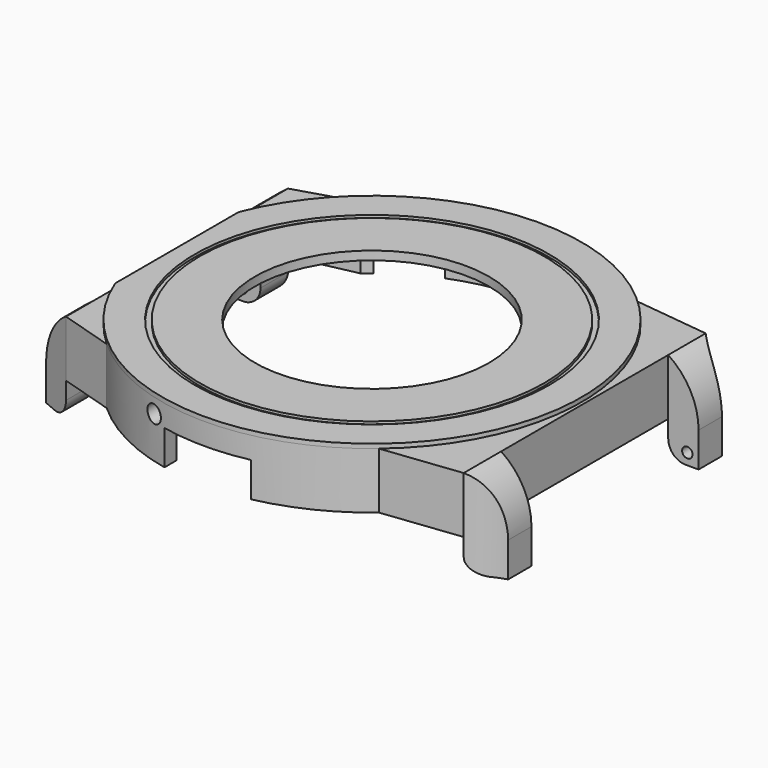
from build123d import *

# Parameters (mm, degrees)
PAD_DEPTH            = 6.5
POCKET_DEPTH         = 6
SKETCH002_R          = 13.5
POCKET001_DEPTH      = 1
SKETCH003_W          = 5.4
SKETCH003_H          = 6.5
PAD001_DEPTH         = 3.5
POCKET002_DEPTH      = 10
SKETCH010_W          = 3.95
SKETCH010_H          = 6.5
PAD002_DEPTH         = 3.5
POCKET005_DEPTH      = 10
SKETCH015_R          = 2.2
SKETCH015_R_2        = 1.025
PAD003_DEPTH         = 2
POCKET009_DEPTH      = 4
POCKET010_DEPTH      = 4
PAD004_DEPTH         = 4
POCKET013_DEPTH      = 12.151
POCKET013_DEPTH_BACK = 36.251
SKETCH022_R          = 0.6
POCKET014_DEPTH      = 2
SKETCH023_R          = 0.6
POCKET015_DEPTH      = 2
SKETCH024_R          = 13.5
PAD005_DEPTH         = 0.5
SKETCH025_R          = 20.45
SKETCH025_R_2        = 19.85
POCKET016_DEPTH      = 0.3
SKETCH026_R          = 1
POCKET017_DEPTH      = 5


with BuildPart() as part:
    # Sketch → Pad (new body)
    with BuildSketch(Plane.XY):
        with BuildLine():
            Line((-22.5019915649, 16), (-22.5019915649, -16))
            Line((-22.5019915649, -16), (-16.2858834578, -17.9))
            ThreePointArc((-16.2858834578, -17.9), (-0.4552796053, -24.1957169863), (15.6009615088, -18.5))
            Line((15.6009615088, -18.5), (24.5395016581, -17.45))
            Line((24.5395016581, 17.45), (24.5395016581, -17.45))
            Line((15.6009615088, 18.5), (24.5395016581, 17.45))
            ThreePointArc((15.6009615088, 18.5), (-0.4552796053, 24.1957169863), (-16.2858834578, 17.9))
            Line((-22.5019915649, 16), (-16.2858834578, 17.9))
        make_face()
    extrude(amount=PAD_DEPTH)

    # Sketch001 → Pocket (cut)
    with BuildSketch(Plane.XY):
        with BuildLine():
            Line((-14.8539557021, 16.9), (-21.2122180433, 15.55))
            Line((-21.2122180433, 15.55), (-21.2122180433, -15.55))
            Line((-21.2122180433, -15.55), (-14.8539557021, -16.9))
            ThreePointArc((-14.8539557021, -16.9), (-0.0760301383, -22.4998715423), (14.739402973, -17))
            Line((14.739402973, -17), (23.6191552218, -16.4))
            Line((23.6191552218, 16.4), (23.6191552218, -16.4))
            Line((14.739402973, 17), (23.6191552218, 16.4))
            ThreePointArc((14.739402973, 17), (-0.0760301383, 22.4998715423), (-14.8539557021, 16.9))
        make_face()
    extrude(amount=POCKET_DEPTH, mode=Mode.SUBTRACT)

    # Sketch002 (on Face19 of Pocket) → Pocket001 (cut)
    with BuildSketch(Plane(origin=(0, 0, 6), x_dir=(1, 0, 0), z_dir=(0, 0, -1))):
        Circle(SKETCH002_R)
    extrude(amount=-POCKET001_DEPTH, mode=Mode.SUBTRACT)

    # Sketch003 (on Face7 of Pad) → Pad001 (join)
    with BuildSketch(Plane.YZ.offset(24.5395016581)):
        with Locations((-14.75, 3.25)):
            Rectangle(SKETCH003_W, SKETCH003_H)
        with Locations((14.75, 3.25)):
            Rectangle(SKETCH003_W, SKETCH003_H)
    extrude(amount=PAD001_DEPTH)

    # Sketch006 (on Face22 of Pad001) → Pocket002 (cut)
    with BuildSketch(Plane.XY.offset(6.5)):
        with BuildLine():
            ThreePointArc((24.5395016581, 17.45), (26.1592830786, 16.2095505764), (28.0395016581, 15.4176006311))
            Line((28.0395016581, 17.45), (28.0395016581, 15.4176006311))
            Line((28.0395016581, 17.45), (24.5395016581, 17.45))
        make_face()
        with BuildLine():
            ThreePointArc((28.0395016581, -15.4176006311), (26.1592830786, -16.2095505765), (24.5395016581, -17.4500000001))
            Line((28.0395016581, -17.45), (24.5395016581, -17.45))
            Line((28.0395016581, -15.4176006311), (28.0395016581, -17.45))
        make_face()
    extrude(amount=-POCKET002_DEPTH, mode=Mode.SUBTRACT)

    # Sketch010 (on Face3 of Pad) → Pad002 (join)
    with BuildSketch(Plane(origin=(-22.5019915649, 0, 0), x_dir=(0, -1, 0), z_dir=(-1, 0, 0))):
        with Locations((-14.025, 3.25)):
            Rectangle(SKETCH010_W, SKETCH010_H)
        with Locations((14.025, 3.25)):
            Rectangle(SKETCH010_W, SKETCH010_H)
    extrude(amount=PAD002_DEPTH)

    # Sketch011 (on Face28 of Pad002) → Pocket005 (cut)
    with BuildSketch(Plane.XY.offset(6.5)):
        Polygon((-26.0019915649, 16), (-22.5019915649, 16), (-26.0019915649, 14.5), align=None)
        Polygon((-22.5019915649, -16), (-26.0019915649, -14.5), (-26.0019915649, -16), align=None)
    extrude(amount=-POCKET005_DEPTH, mode=Mode.SUBTRACT)

    # Sketch015 (on Face19 of Pocket) → Pad003 (join)
    with BuildSketch(Plane(origin=(0, 0, 6), x_dir=(1, 0, 0), z_dir=(0, 0, -1))):
        with Locations((-18.42, 13.32)):
            Circle(SKETCH015_R)
        with Locations((-18.42, 13.32)):
            Circle(SKETCH015_R_2, mode=Mode.SUBTRACT)
        with Locations((7.27, 18.56)):
            Circle(SKETCH015_R)
        with Locations((7.27, 18.56)):
            Circle(SKETCH015_R_2, mode=Mode.SUBTRACT)
        with Locations((5.37, -19.79)):
            Circle(SKETCH015_R)
        with Locations((5.37, -19.79)):
            Circle(SKETCH015_R_2, mode=Mode.SUBTRACT)
        with Locations((-18.42, -13.32)):
            Circle(SKETCH015_R)
        with Locations((-18.42, -13.32)):
            Circle(SKETCH015_R_2, mode=Mode.SUBTRACT)
    extrude(amount=PAD003_DEPTH)

    # Sketch016 (on Face4 of Pocket) → Pocket009 (cut)
    with BuildSketch(Plane(origin=(0, 0, 0), x_dir=(1, 0, 0), z_dir=(0, 0, -1))):
        with BuildLine():
            Line((-4.9992330338, 23.6779996848), (-5.0007669662, 21.9372361465))
            ThreePointArc((5.0007669662, 21.9372361465), (0, 22.5), (-5.0007669662, 21.9372361465))
            Line((5.0007669662, 23.6776757675), (5.0007669662, 21.9372361465))
            ThreePointArc((5.0007669662, 23.6776757675), (0.00078388, 24.1999999873), (-4.9992330338, 23.6779996848))
        make_face()
    extrude(amount=-POCKET009_DEPTH, mode=Mode.SUBTRACT)

    # Sketch017 (on Face4 of Pocket) → Pocket010 (cut)
    with BuildSketch(Plane(origin=(0, 0, 0), x_dir=(1, 0, 0), z_dir=(0, 0, -1))):
        with BuildLine():
            ThreePointArc((-3.2541322314, -22.2634369184), (0, -22.5), (3.2541322314, -22.2634369184))
            Line((3.2541322314, -22.2634369184), (3.5, -23.9455632634))
            ThreePointArc((-3.5, -23.9455632634), (0, -24.2), (3.5, -23.9455632634))
            Line((-3.2541322314, -22.2634369184), (-3.5, -23.9455632634))
        make_face()
        with BuildLine():
            ThreePointArc((-13.9498796389, -17.6536358312), (-11.25, -19.4855715851), (-8.3135572795, -20.9077680626))
            Line((-8.3135572795, -20.9077680626), (-8.9416927184, -22.487466094))
            ThreePointArc((-15.0038705449, -18.987466094), (-12.1, -20.9578147716), (-8.9416927184, -22.487466094))
            Line((-13.9498796389, -17.6536358312), (-15.0038705449, -18.987466094))
        make_face()
        with BuildLine():
            ThreePointArc((8.3135572795, -20.9077680626), (11.25, -19.4855715851), (13.9498796389, -17.6536358312))
            Line((13.9498796389, -17.6536358312), (15.0038705449, -18.987466094))
            ThreePointArc((8.9416927184, -22.487466094), (12.1, -20.9578147716), (15.0038705449, -18.987466094))
            Line((8.3135572795, -20.9077680626), (8.9416927184, -22.487466094))
        make_face()
    extrude(amount=-POCKET010_DEPTH, mode=Mode.SUBTRACT)

    # Sketch018 (on Face8 of Pocket005) → Pad004 (join)
    with BuildSketch(Plane(origin=(0, 0, 0), x_dir=(1, 0, 0), z_dir=(0, 0, -1))):
        Polygon((-26.0019915649, 14.5), (-26.0019915649, 12.05), (-22.5019915649, 12.05), (-22.5019915649, 16), align=None)
        Polygon((-26.0019915649, -12.05), (-22.5019915649, -12.05), (-22.5019915649, -16), (-26.0019915649, -14.5), align=None)
        with BuildLine():
            Line((24.5395016581, 17.4500000001), (24.5395016581, 12.05))
            Line((28.0395016581, 12.05), (24.5395016581, 12.05))
            Line((28.0395016581, 15.4176006311), (28.0395016581, 12.05))
            ThreePointArc((24.5395016581, 17.4500000001), (26.1592830786, 16.2095505765), (28.0395016581, 15.4176006311))
        make_face()
        with BuildLine():
            Line((24.5395016581, -12.05), (24.5395016581, -17.45))
            ThreePointArc((28.0395016581, -15.4176006311), (26.1592830786, -16.2095505764), (24.5395016581, -17.45))
            Line((28.0395016581, -12.05), (28.0395016581, -15.4176006311))
            Line((24.5395016581, -12.05), (28.0395016581, -12.05))
        make_face()
    extrude(amount=PAD004_DEPTH)

    # Sketch021 (on Face50 of Pad004) → Pocket013 (cut, two sides)
    with BuildSketch(Plane(origin=(0, -12.05, 0), x_dir=(-1, 0, 0), z_dir=(0, 1, 0))) as pocket013_sk:
        with BuildLine():
            Line((-24.5395016581, -4), (-24.5395016581, -2))
            ThreePointArc((-26.5395016581, -4), (-25.1252880957, -3.4142135624), (-24.5395016581, -2))
            Line((-24.5395016581, -4), (-26.5395016581, -4))
        make_face()
        with BuildLine():
            Line((22.5019915649, -4), (22.5019915649, -2))
            ThreePointArc((22.5019915649, -2), (23.0877780026, -3.4142135624), (24.5019915649, -4))
            Line((22.5019915649, -4), (24.5019915649, -4))
        make_face()
        with BuildLine():
            Line((-28.0395016581, 0), (-28.0395016581, 6.5))
            Line((-28.0395016581, 6.5), (-24.5395016581, 6.5))
            ThreePointArc((-24.5395016581, 6.5), (-27.1088837932, 3.6912057651), (-28.0395016581, 0))
        make_face()
        with BuildLine():
            Line((26.0019915649, 6.5), (26.0019915649, 0))
            ThreePointArc((26.0019915649, 0), (25.0713737, 3.6912057651), (22.5019915649, 6.5))
            Line((26.0019915649, 6.5), (22.5019915649, 6.5))
        make_face()
    extrude(amount=-POCKET013_DEPTH, mode=Mode.SUBTRACT)
    extrude(pocket013_sk.sketch, amount=POCKET013_DEPTH_BACK, mode=Mode.SUBTRACT)

    # Sketch022 (on Face66 of Pocket013) → Pocket014 (cut)
    with BuildSketch(Plane.XZ.offset(-12.05)):
        with Locations((-24.7019915649, -2.7)):
            Circle(SKETCH022_R)
        with Locations((26.7395016581, -2.7)):
            Circle(SKETCH022_R)
    extrude(amount=-POCKET014_DEPTH, mode=Mode.SUBTRACT)

    # Sketch023 (on Face49 of Pocket014) → Pocket015 (cut)
    with BuildSketch(Plane(origin=(0, -12.05, 0), x_dir=(-1, 0, 0), z_dir=(0, 1, 0))):
        with Locations((-26.7395016581, -2.7)):
            Circle(SKETCH023_R)
        with Locations((24.7019915649, -2.7)):
            Circle(SKETCH023_R)
    extrude(amount=-POCKET015_DEPTH, mode=Mode.SUBTRACT)

    # Sketch024 (on Face16 of Pocket015) → Pad005 (join)
    with BuildSketch(Plane.XY.offset(6.5)):
        with BuildLine():
            ThreePointArc((-22.5019915649, -8.9050758341), (24.2, 0), (-22.5019915649, 8.9050758341))
            Line((-22.5019915649, 8.9050758341), (-22.5019915649, -8.9050758341))
        make_face()
        Circle(SKETCH024_R, mode=Mode.SUBTRACT)
    extrude(amount=PAD005_DEPTH)

    # Sketch025 (on Face42 of Pad005) → Pocket016 (cut)
    with BuildSketch(Plane.XY.offset(7)):
        Circle(SKETCH025_R)
        Circle(SKETCH025_R_2, mode=Mode.SUBTRACT)
    extrude(amount=-POCKET016_DEPTH, mode=Mode.SUBTRACT)

    # Sketch026 (on DatumPlane) → Pocket017 (cut)
    with BuildSketch(Plane.XZ.offset(25)):
        with Locations((-6.5, 4.8)):
            Circle(SKETCH026_R)
    extrude(amount=-POCKET017_DEPTH, mode=Mode.SUBTRACT)


solid = part.part
